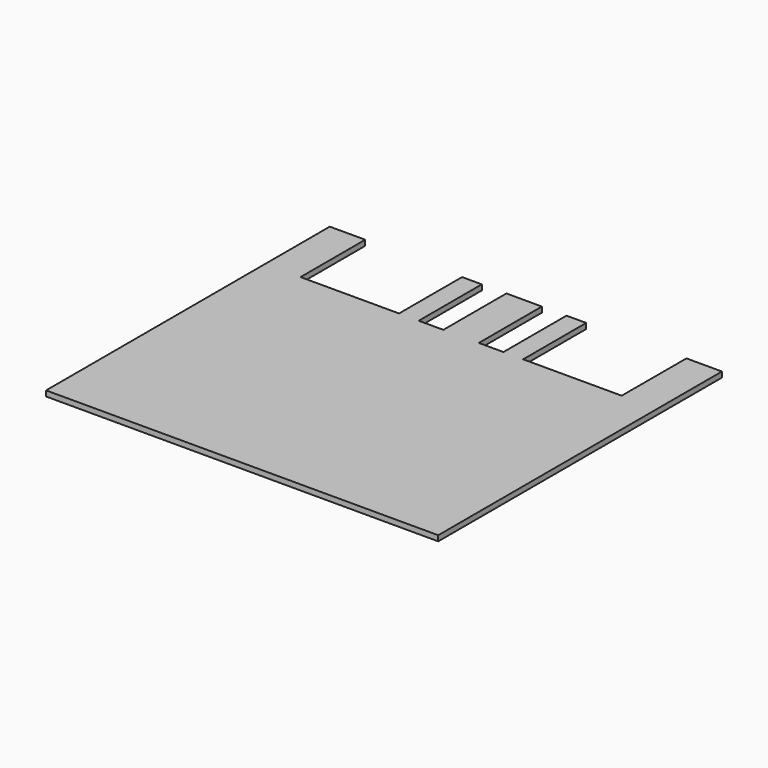
from build123d import *

# Parameters (mm, degrees)
F1_DEPTH = 2.75


with BuildPart() as f1:
    # F0 (on Top) → F1 (new body)
    with BuildSketch(Plane.XY):
        Polygon((55.808499, 21.866584), (37.808499, 21.866584), (37.808499, -18.133416), (25.308499, -18.133416), (25.308499, 21.866584), (15.308499, 21.866584), (15.308499, -18.133416), (-34.691501, -18.133416), (-34.691501, 22.91804), (-52.691501, 22.91804), (-52.691501, -157.08196), (146.361896, -157.08196), (146.361896, 22.91804), (128.361896, 22.91804), (128.308499, -18.133416), (78.308499, -18.133416), (78.308499, 21.866584), (68.308499, 21.866584), (68.308499, -18.133416), (55.808499, -18.133416), align=None)
    extrude(amount=F1_DEPTH)


solid = f1.part
